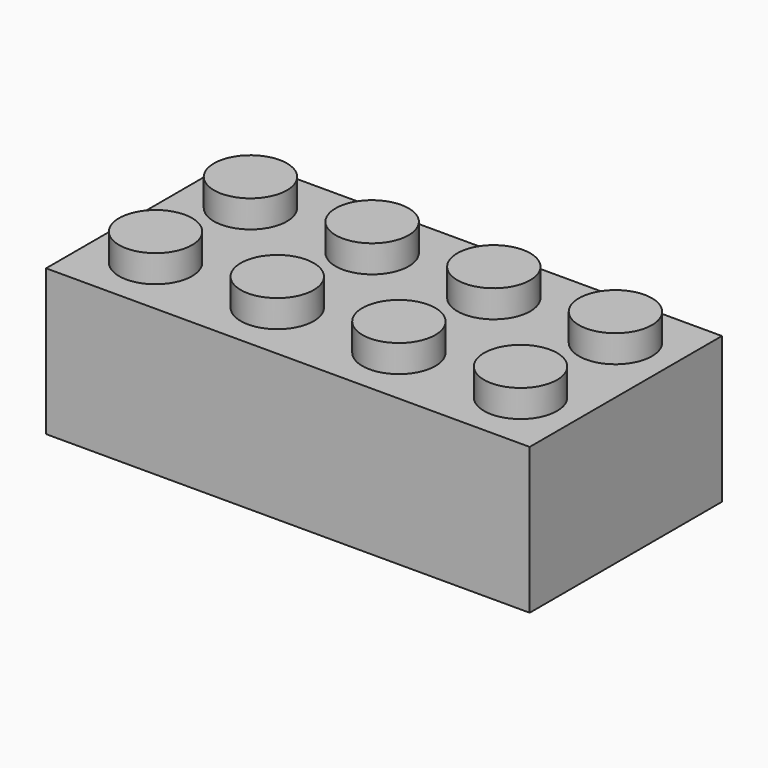
from build123d import *

# Parameters (mm, degrees)
SKETCH_W               = 47.7
SKETCH_H               = 23.7
PAD_DEPTH              = 14.4
SKETCH001_W            = 44.1
SKETCH001_H            = 20.1
POCKET_DEPTH           = 12.6
SKETCH002_R            = 3.6
PAD001_DEPTH           = 2.7
LINEARPATTERN_COUNT    = 4
LINEARPATTERN_PITCH    = 12
SKETCH003_R            = 4.8825
PAD002_DEPTH           = 12.6
LINEARPATTERN001_COUNT = 3
LINEARPATTERN001_PITCH = 12
SKETCH004_R            = 3.6
POCKET001_DEPTH        = 12.6
LINEARPATTERN002_COUNT = 3
LINEARPATTERN002_PITCH = 12


with BuildPart() as part:
    # Sketch → Pad (new body)
    with BuildSketch(Plane.XY):
        with Locations((23.85, -11.85)):
            Rectangle(SKETCH_W, SKETCH_H)
    extrude(amount=PAD_DEPTH)

    # Sketch001 (on Face5 of Pad) → Pocket (cut)
    with BuildSketch(Plane(origin=(0, 0, 0), x_dir=(1, 0, 0), z_dir=(0, 0, -1))):
        with Locations((23.85, 11.85)):
            Rectangle(SKETCH001_W, SKETCH001_H)
    extrude(amount=-POCKET_DEPTH, mode=Mode.SUBTRACT)

    # Sketch002 (on Face5 of Pocket) → Pad001 (join)
    with BuildSketch(Plane.XY.offset(14.4)):
        with Locations((6, -6)):
            Circle(SKETCH002_R)
        with Locations((6, -17.7)):
            Circle(SKETCH002_R)
    pad001 = extrude(amount=PAD001_DEPTH)

    # LinearPattern: Pad001 ×4
    with Locations(*[(i * LINEARPATTERN_PITCH, 0, 0) for i in range(1, LINEARPATTERN_COUNT)]):
        add(pad001)

    # Sketch003 (on Face19 of LinearPattern) → Pad002 (join)
    with BuildSketch(Plane(origin=(0, 0, 12.6), x_dir=(1, 0, 0), z_dir=(0, 0, -1))):
        with Locations((12, 12)):
            Circle(SKETCH003_R)
    pad002 = extrude(amount=PAD002_DEPTH)

    # LinearPattern001: Pad002 ×3
    with Locations(*[(i * LINEARPATTERN001_PITCH, 0, 0) for i in range(1, LINEARPATTERN001_COUNT)]):
        add(pad002)

    # Sketch004 (on Face31 of LinearPattern001) → Pocket001 (cut)
    with BuildSketch(Plane(origin=(0, 0, 0), x_dir=(1, 0, 0), z_dir=(0, 0, -1))):
        with Locations((12, 12)):
            Circle(SKETCH004_R)
    pocket001 = extrude(amount=-POCKET001_DEPTH, mode=Mode.SUBTRACT)

    # LinearPattern002: Pocket001 ×3
    with Locations(*[(i * LINEARPATTERN002_PITCH, 0, 0) for i in range(1, LINEARPATTERN002_COUNT)]):
        add(pocket001, mode=Mode.SUBTRACT)


solid = part.part
